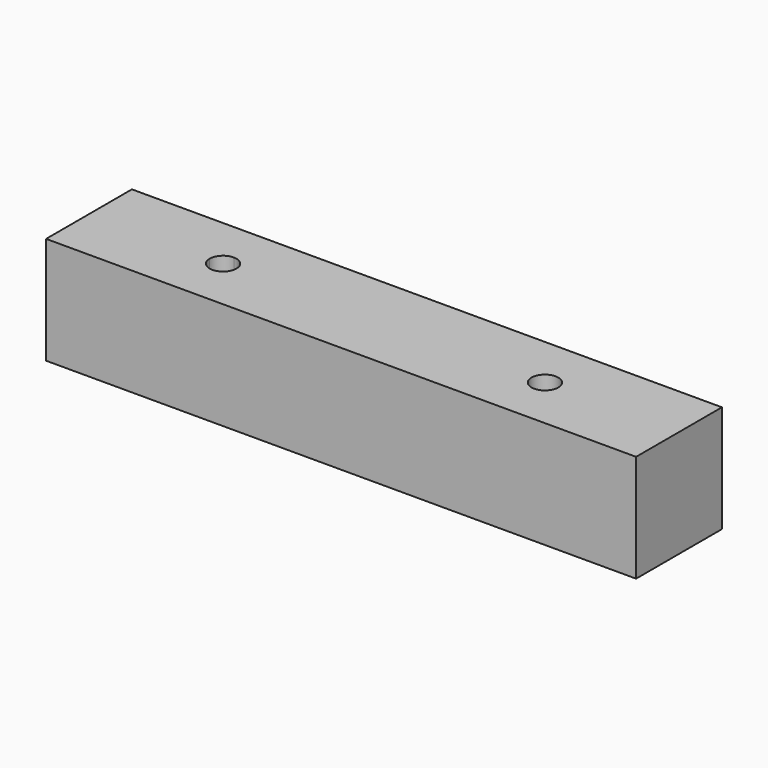
from build123d import *

# Parameters (mm, degrees)
F0_W     = 558.8
F0_H     = 101.6
F1_DEPTH = 101.6
F2_R     = 12.7
F3_DEPTH = 101.601


with BuildPart() as f1:
    # F0 (on Top) → F1 (new body)
    with BuildSketch(Plane.XY):
        with Locations((279.4, 50.8)):
            Rectangle(F0_W, F0_H)
    extrude(amount=-F1_DEPTH)

    # F2 (on face) → F3 (cut, through all)
    with BuildSketch(Plane.XY):
        with BuildLine():
            ThreePointArc((127, 38.1), (135.980256, 41.819744), (139.7, 50.8))
            ThreePointArc((139.7, 50.8), (135.980256, 59.780256), (127, 63.5))
            ThreePointArc((127, 63.5), (118.019744, 59.780256), (114.3, 50.8))
            ThreePointArc((114.3, 50.8), (118.019744, 41.819744), (127, 38.1))
        make_face()
        with Locations((431.8, 50.8)):
            Circle(F2_R)
    extrude(amount=-F3_DEPTH, mode=Mode.SUBTRACT)


solid = f1.part
